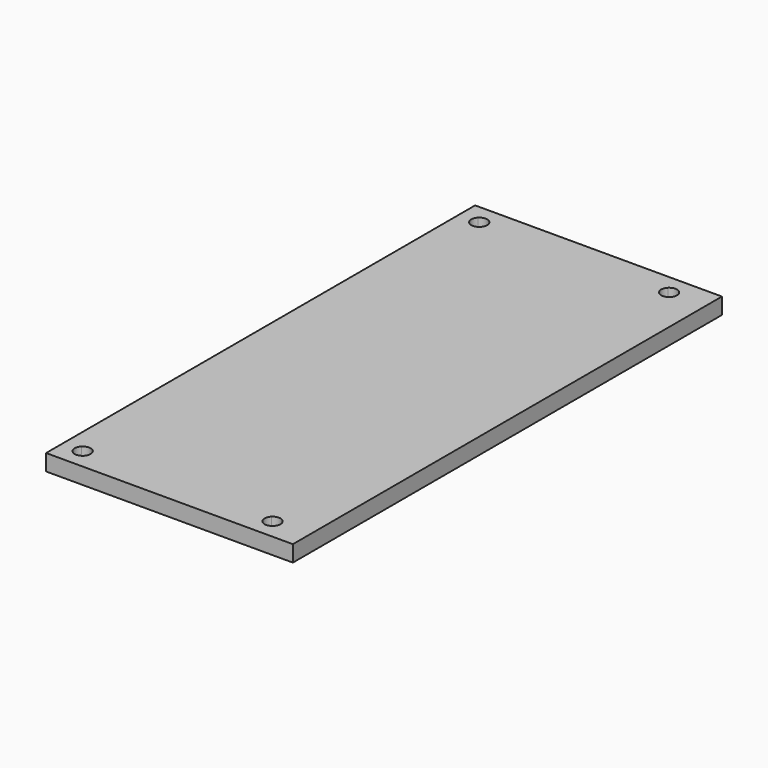
from build123d import *

# Parameters (mm, degrees)
F0_W     = 60.74
F0_H     = 132
F1_DEPTH = 4
F3_DEPTH = 4


with BuildPart() as f1:
    # F0 (on Top) → F1 (new body)
    with BuildSketch(Plane.XY):
        Rectangle(F0_W, F0_H)
    extrude(amount=F1_DEPTH)

    # F2 (on face) → F3 (cut)
    with BuildSketch(Plane.XY.offset(4)):
        with BuildLine():
            Line((-23.9911417767, 59.6211417767), (-26.7488582233, 62.3788582233))
            ThreePointArc((-26.7488582233, 62.3788582233), (-26.7488582233, 59.6211417767), (-23.9911417767, 59.6211417767))
        make_face()
        with BuildLine():
            ThreePointArc((-23.42, 61), (-24.6237673069, 62.8015650884), (-26.7488582233, 62.3788582233))
            Line((-26.7488582233, 62.3788582233), (-23.9911417767, 59.6211417767))
            ThreePointArc((-23.9911417767, 59.6211417767), (-23.5684349116, 60.2537673069), (-23.42, 61))
        make_face()
        with BuildLine():
            Line((22.7488582233, 59.6211417767), (19.9911417767, 62.3788582233))
            ThreePointArc((19.9911417767, 62.3788582233), (19.9911417767, 59.6211417767), (22.7488582233, 59.6211417767))
        make_face()
        with BuildLine():
            ThreePointArc((23.32, 61), (22.1162326931, 62.8015650884), (19.9911417767, 62.3788582233))
            Line((19.9911417767, 62.3788582233), (22.7488582233, 59.6211417767))
            ThreePointArc((22.7488582233, 59.6211417767), (23.1715650884, 60.2537673069), (23.32, 61))
        make_face()
        with BuildLine():
            ThreePointArc((-23.42, -61), (-24.6237673069, -59.1984349116), (-26.7488582233, -59.6211417767))
            Line((-26.7488582233, -59.6211417767), (-23.9911417767, -62.3788582233))
            ThreePointArc((-23.9911417767, -62.3788582233), (-23.5684349116, -61.7462326931), (-23.42, -61))
        make_face()
        with BuildLine():
            Line((-23.9911417767, -62.3788582233), (-26.7488582233, -59.6211417767))
            ThreePointArc((-26.7488582233, -59.6211417767), (-26.7488582233, -62.3788582233), (-23.9911417767, -62.3788582233))
        make_face()
        with BuildLine():
            ThreePointArc((19.9911417767, -59.6211417767), (19.9911417767, -62.3788582233), (22.7488582233, -62.3788582233))
            Line((22.7488582233, -62.3788582233), (19.9911417767, -59.6211417767))
        make_face()
        with BuildLine():
            Line((19.9911417767, -59.6211417767), (22.7488582233, -62.3788582233))
            ThreePointArc((22.7488582233, -62.3788582233), (23.1715650884, -61.7462326931), (23.32, -61))
            ThreePointArc((23.32, -61), (22.1162326931, -59.1984349116), (19.9911417767, -59.6211417767))
        make_face()
    extrude(amount=-F3_DEPTH, mode=Mode.SUBTRACT)


solid = f1.part
